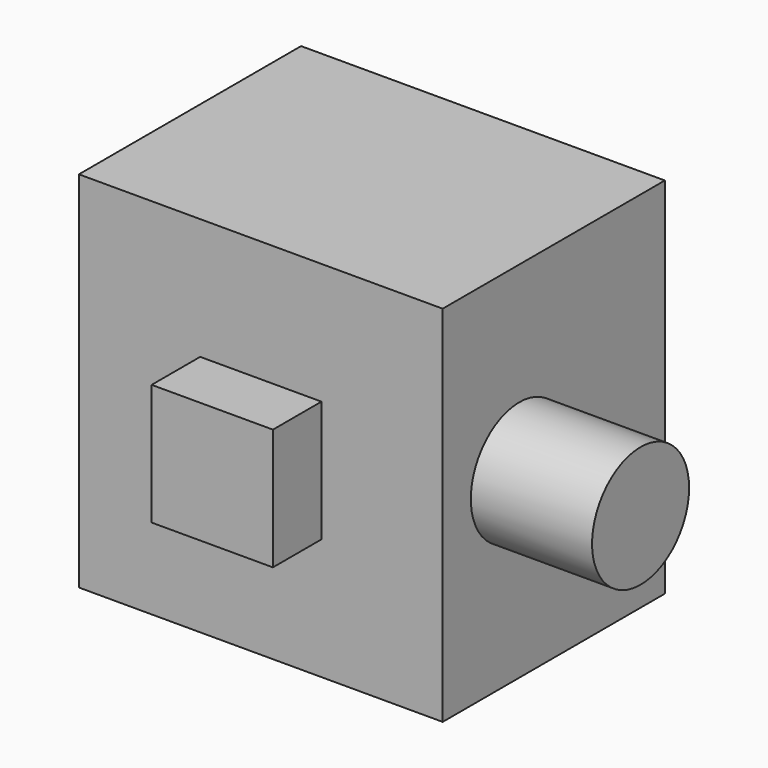
from build123d import *

# Parameters (mm, degrees)
F0_W      = 76.2
F0_H      = 76.2
F1_DEPTH  = 25.4
F1_FACE_W = 76.2
F1_FACE_H = 76.2
F2_DEPTH  = 32.766
F3_W      = 25.4
F3_H      = 25.4
F4_DEPTH  = 12.7
F5_R      = 12.7
F7_DEPTH  = 25.4


with BuildPart() as f1:
    # F0 (on Front) → F1 (new body)
    with BuildSketch(Plane.XZ):
        with Locations((-89.903427, 73.106664)):
            Rectangle(F0_W, F0_H)
    extrude(amount=F1_DEPTH)

    # F1_face (on face) → F2 (join)
    with BuildSketch(Plane(origin=(-89.903427, -25.4, 73.106664), x_dir=(1, 0, 0), z_dir=(0, -1, 0))):
        Rectangle(F1_FACE_W, F1_FACE_H)
    extrude(amount=F2_DEPTH)

    # F3 (on face) → F4 (join)
    with BuildSketch(Plane.XZ.offset(58.166)):
        with Locations((-89.903427, 73.106664)):
            Rectangle(F3_W, F3_H)
    extrude(amount=F4_DEPTH)

    # F5 (on face) → F7 (join)
    with BuildSketch(Plane.YZ.offset(-51.803427)):
        with Locations((-38.1, 73.106664)):
            Circle(F5_R)
    extrude(amount=F7_DEPTH)


solid = f1.part
